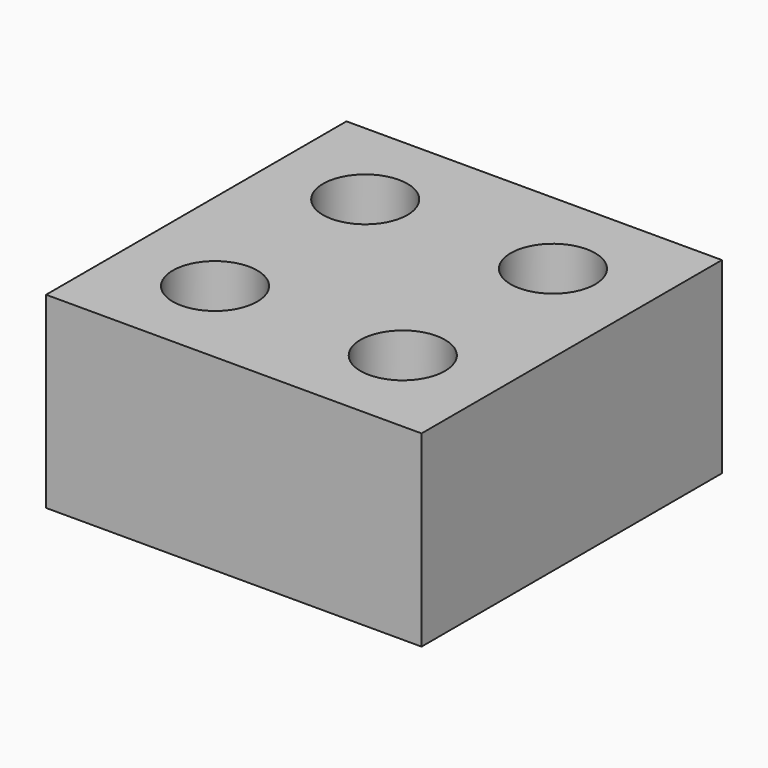
from build123d import *

# Parameters (mm, degrees)
SKETCH_W  = 20
SKETCH_H  = 20
SKETCH_R  = 2.25
PAD_DEPTH = 10


with BuildPart() as part:
    # Sketch → Pad (new body)
    with BuildSketch(Plane.XY):
        Rectangle(SKETCH_W, SKETCH_H)
        with Locations((-5, 5)):
            Circle(SKETCH_R, mode=Mode.SUBTRACT)
        with Locations((5, 5)):
            Circle(SKETCH_R, mode=Mode.SUBTRACT)
        with Locations((5, -5)):
            Circle(SKETCH_R, mode=Mode.SUBTRACT)
        with Locations((-5, -5)):
            Circle(SKETCH_R, mode=Mode.SUBTRACT)
    extrude(amount=PAD_DEPTH)


solid = part.part
